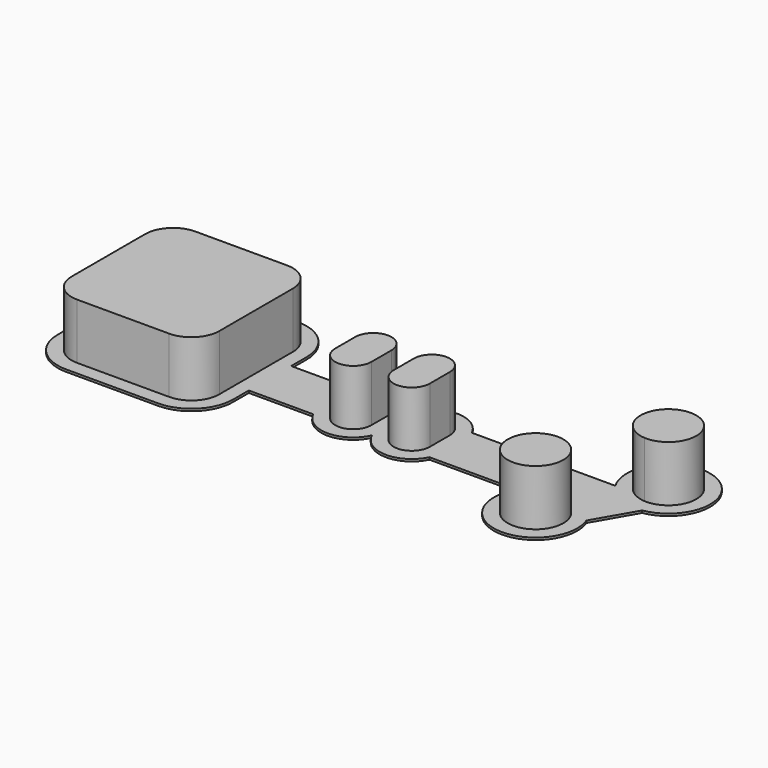
from build123d import *

# Parameters (mm, degrees)
F0_W     = 4
F0_H     = 4.5
F0_W_2   = 16
F0_W_3   = 6.5
F1_DEPTH = 0.4
F2_W     = 6.5
F2_H     = 4.5
F3_DEPTH = 10


with BuildPart() as f1:
    # F0 (on Top) → F1 (new body)
    with BuildSketch(Plane.XY):
        with BuildLine():
            Line((15.75, 4.75), (15.75, 8.25))
            ThreePointArc((15.75, 8.25), (13.5533008589, 13.5533008589), (8.25, 15.75))
            Line((8.25, 15.75), (-8.25, 15.75))
            ThreePointArc((-8.25, 15.75), (-13.5533008589, 13.5533008589), (-15.75, 8.25))
            Line((-15.75, 8.25), (-15.75, -8.25))
            ThreePointArc((-15.75, -8.25), (-13.5533008589, -13.5533008589), (-8.25, -15.75))
            Line((-8.25, -15.75), (8.25, -15.75))
            ThreePointArc((8.25, -15.75), (13.5533008589, -13.5533008589), (15.75, -8.25))
            Line((15.75, -8.25), (15.75, -4.75))
            Line((15.75, -4.75), (27.3219212057, -4.75))
            ThreePointArc((27.3219212057, -4.75), (32.5853423404, -7.9993666334), (37.75, -4.5952078799))
            ThreePointArc((37.75, -4.5952078799), (42.9146576596, -7.9993666334), (48.1780787943, -4.75))
            Line((48.1780787943, -4.75), (63.9480829801, -4.75))
            ThreePointArc((63.9480829801, -4.75), (69.6474451199, -16.1274567319), (77.3637435709, -6.0087617221))
            Line((77.3637435709, -6.0087617221), (81.5596501878, 1.2587617221))
            ThreePointArc((81.5596501878, 1.2587617221), (83.4749132345, 15.4773568118), (73.9480829801, 4.75))
            Line((73.9480829801, 4.75), (48.1780787943, 4.75))
            ThreePointArc((48.1780787943, 4.75), (42.9146576596, 7.9993666334), (37.75, 4.5952078799))
            ThreePointArc((37.75, 4.5952078799), (32.5853423404, 7.9993666334), (27.3219212057, 4.75))
            Line((27.3219212057, 4.75), (15.75, 4.75))
        make_face()
        with BuildLine():
            Line((4.5, 13.25), (8.25, 13.25))
            ThreePointArc((8.25, 13.25), (11.7855339059, 11.7855339059), (13.25, 8.25))
            Line((13.25, 8.25), (13.25, 4.5))
            Line((13.25, 4.5), (13.25, 2.25))
            Line((13.25, 2.25), (29.25, 2.25))
            ThreePointArc((29.25, 2.25), (32.5, 5.5), (35.75, 2.25))
            Line((35.75, 2.25), (39.75, 2.25))
            ThreePointArc((39.75, 2.25), (43, 5.5), (46.25, 2.25))
            Line((46.25, 2.25), (74.0490381057, 2.25))
            Line((74.0490381057, 2.25), (76.1669476654, 5.9183269633))
            ThreePointArc((76.1669476654, 5.9183269633), (82.8480762114, 12.9903810568), (80.0640619824, 3.6683269633))
            Line((80.0640619824, 3.6683269633), (74.5292047573, -5.9183269633))
            ThreePointArc((74.5292047573, -5.9183269633), (67.8480762114, -12.9903810568), (70.6320904403, -3.6683269633))
            Line((70.6320904403, -3.6683269633), (71.4509618943, -2.25))
            Line((71.4509618943, -2.25), (46.25, -2.25))
            ThreePointArc((46.25, -2.25), (43, -5.5), (39.75, -2.25))
            Line((39.75, -2.25), (35.75, -2.25))
            ThreePointArc((35.75, -2.25), (32.5, -5.5), (29.25, -2.25))
            Line((29.25, -2.25), (13.25, -2.25))
            Line((13.25, -2.25), (13.25, -4.5))
            Line((13.25, -4.5), (13.25, -8.25))
            ThreePointArc((13.25, -8.25), (11.7855339059, -11.7855339059), (8.25, -13.25))
            Line((8.25, -13.25), (4.5, -13.25))
            Line((4.5, -13.25), (-4.5, -13.25))
            Line((-4.5, -13.25), (-8.25, -13.25))
            ThreePointArc((-8.25, -13.25), (-11.7855339059, -11.7855339059), (-13.25, -8.25))
            Line((-13.25, -8.25), (-13.25, -4.5))
            Line((-13.25, -4.5), (-13.25, 4.5))
            Line((-13.25, 4.5), (-13.25, 8.25))
            ThreePointArc((-13.25, 8.25), (-11.7855339059, 11.7855339059), (-8.25, 13.25))
            Line((-8.25, 13.25), (-4.5, 13.25))
            Line((-4.5, 13.25), (4.5, 13.25))
        make_face(mode=Mode.SUBTRACT)
        with Locations((37.75, 0)):
            Rectangle(F0_W, F0_H)
        with BuildLine():
            Line((4.5, 0), (4.5, 4.5))
            Line((4.5, 4.5), (0, 4.5))
            ThreePointArc((0, 4.5), (3.1819805153, 3.1819805153), (4.5, 0))
        make_face()
        with Locations((21.25, 0)):
            Rectangle(F0_W_2, F0_H)
        Polygon((74.0490381057, 2.25), (46.25, 2.25), (46.25, -2.25), (71.4509618943, -2.25), align=None)
        with BuildLine():
            ThreePointArc((13.25, 8.25), (11.7855339059, 11.7855339059), (8.25, 13.25))
            Line((8.25, 13.25), (4.5, 13.25))
            Line((4.5, 13.25), (4.5, 4.5))
            Line((4.5, 4.5), (13.25, 4.5))
            Line((13.25, 4.5), (13.25, 8.25))
        make_face()
        Polygon((4.5, 4.5), (4.5, 13.25), (-4.5, 13.25), (-4.5, 4.5), (0, 4.5), align=None)
        with BuildLine():
            Line((0, 4.5), (-4.5, 4.5))
            Line((-4.5, 4.5), (-4.5, 0))
            ThreePointArc((-4.5, 0), (-3.1819805153, 3.1819805153), (0, 4.5))
        make_face()
        with BuildLine():
            Line((-4.5, 4.5), (-4.5, 13.25))
            Line((-4.5, 13.25), (-8.25, 13.25))
            ThreePointArc((-8.25, 13.25), (-11.7855339059, 11.7855339059), (-13.25, 8.25))
            Line((-13.25, 8.25), (-13.25, 4.5))
            Line((-13.25, 4.5), (-4.5, 4.5))
        make_face()
        with BuildLine():
            ThreePointArc((0, -4.5), (-3.1819805153, -3.1819805153), (-4.5, 0))
            Line((-4.5, 0), (-4.5, -4.5))
            Line((-4.5, -4.5), (0, -4.5))
        make_face()
        Polygon((-4.5, 0), (-4.5, 4.5), (-13.25, 4.5), (-13.25, -4.5), (-4.5, -4.5), align=None)
        with BuildLine():
            Line((76.1669476654, 5.9183269633), (74.0490381057, 2.25))
            Line((74.0490381057, 2.25), (71.4509618943, -2.25))
            Line((71.4509618943, -2.25), (70.6320904403, -3.6683269633))
            ThreePointArc((70.6320904403, -3.6683269633), (72.8480762114, -4.3301270189), (74.5292047573, -5.9183269633))
            Line((74.5292047573, -5.9183269633), (80.0640619824, 3.6683269633))
            ThreePointArc((80.0640619824, 3.6683269633), (77.8480762114, 4.3301270189), (76.1669476654, 5.9183269633))
        make_face()
        with BuildLine():
            Line((13.25, -4.5), (4.5, -4.5))
            Line((4.5, -4.5), (4.5, -13.25))
            Line((4.5, -13.25), (8.25, -13.25))
            ThreePointArc((8.25, -13.25), (11.7855339059, -11.7855339059), (13.25, -8.25))
            Line((13.25, -8.25), (13.25, -4.5))
        make_face()
        Polygon((4.5, -4.5), (0, -4.5), (-4.5, -4.5), (-4.5, -13.25), (4.5, -13.25), align=None)
        with BuildLine():
            Line((-4.5, -13.25), (-4.5, -4.5))
            Line((-4.5, -4.5), (-13.25, -4.5))
            Line((-13.25, -4.5), (-13.25, -8.25))
            ThreePointArc((-13.25, -8.25), (-11.7855339059, -11.7855339059), (-8.25, -13.25))
            Line((-8.25, -13.25), (-4.5, -13.25))
        make_face()
        with BuildLine():
            ThreePointArc((0, -4.5), (3.1819805153, -3.1819805153), (4.5, 0))
            ThreePointArc((4.5, 0), (3.1819805153, 3.1819805153), (0, 4.5))
            ThreePointArc((0, 4.5), (-3.1819805153, 3.1819805153), (-4.5, 0))
            ThreePointArc((-4.5, 0), (-3.1819805153, -3.1819805153), (0, -4.5))
        make_face()
        with BuildLine():
            ThreePointArc((35.75, 2.25), (32.5, 5.5), (29.25, 2.25))
            Line((29.25, 2.25), (35.75, 2.25))
        make_face()
        with BuildLine():
            Line((4.5, -4.5), (4.5, 0))
            ThreePointArc((4.5, 0), (3.1819805153, -3.1819805153), (0, -4.5))
            Line((0, -4.5), (4.5, -4.5))
        make_face()
        with BuildLine():
            Line((46.25, -2.25), (39.75, -2.25))
            ThreePointArc((39.75, -2.25), (43, -5.5), (46.25, -2.25))
        make_face()
        with BuildLine():
            ThreePointArc((46.25, 2.25), (43, 5.5), (39.75, 2.25))
            Line((39.75, 2.25), (46.25, 2.25))
        make_face()
        with BuildLine():
            Line((35.75, -2.25), (29.25, -2.25))
            ThreePointArc((29.25, -2.25), (32.5, -5.5), (35.75, -2.25))
        make_face()
        with BuildLine():
            ThreePointArc((74.5292047573, -5.9183269633), (72.8480762114, -4.3301270189), (70.6320904403, -3.6683269633))
            ThreePointArc((70.6320904403, -3.6683269633), (67.8480762114, -12.9903810568), (74.5292047573, -5.9183269633))
        make_face()
        with BuildLine():
            ThreePointArc((80.0640619824, 3.6683269633), (82.8480762114, 12.9903810568), (76.1669476654, 5.9183269633))
            ThreePointArc((76.1669476654, 5.9183269633), (77.8480762114, 4.3301270189), (80.0640619824, 3.6683269633))
        make_face()
        Polygon((13.25, 4.5), (4.5, 4.5), (4.5, 0), (4.5, -4.5), (13.25, -4.5), (13.25, -2.25), (13.25, 2.25), align=None)
        with Locations((32.5, 0)):
            Rectangle(F0_W_3, F0_H)
        with Locations((43, 0)):
            Rectangle(F0_W_3, F0_H)
    extrude(amount=F1_DEPTH)

    # F2 (on face) → F3 (join)
    with BuildSketch(Plane.XY.offset(0.4)):
        with BuildLine():
            Line((4.5, -4.5), (4.5, 0))
            ThreePointArc((4.5, 0), (3.1819805153, -3.1819805153), (0, -4.5))
            Line((0, -4.5), (4.5, -4.5))
        make_face()
        with BuildLine():
            ThreePointArc((0, -4.5), (3.1819805153, -3.1819805153), (4.5, 0))
            ThreePointArc((4.5, 0), (3.1819805153, 3.1819805153), (0, 4.5))
            ThreePointArc((0, 4.5), (-3.1819805153, 3.1819805153), (-4.5, 0))
            ThreePointArc((-4.5, 0), (-3.1819805153, -3.1819805153), (0, -4.5))
        make_face()
        with BuildLine():
            Line((4.5, 0), (4.5, 4.5))
            Line((4.5, 4.5), (0, 4.5))
            ThreePointArc((0, 4.5), (3.1819805153, 3.1819805153), (4.5, 0))
        make_face()
        with BuildLine():
            Line((0, 4.5), (-4.5, 4.5))
            Line((-4.5, 4.5), (-4.5, 0))
            ThreePointArc((-4.5, 0), (-3.1819805153, 3.1819805153), (0, 4.5))
        make_face()
        with BuildLine():
            ThreePointArc((0, -4.5), (-3.1819805153, -3.1819805153), (-4.5, 0))
            Line((-4.5, 0), (-4.5, -4.5))
            Line((-4.5, -4.5), (0, -4.5))
        make_face()
        Polygon((13.25, 4.5), (4.5, 4.5), (4.5, 0), (4.5, -4.5), (13.25, -4.5), (13.25, -2.25), (13.25, 2.25), align=None)
        with BuildLine():
            Line((-4.5, 4.5), (-4.5, 13.25))
            Line((-4.5, 13.25), (-8.25, 13.25))
            ThreePointArc((-8.25, 13.25), (-11.7855339059, 11.7855339059), (-13.25, 8.25))
            Line((-13.25, 8.25), (-13.25, 4.5))
            Line((-13.25, 4.5), (-4.5, 4.5))
        make_face()
        Polygon((-4.5, 0), (-4.5, 4.5), (-13.25, 4.5), (-13.25, -4.5), (-4.5, -4.5), align=None)
        with BuildLine():
            ThreePointArc((13.25, 8.25), (11.7855339059, 11.7855339059), (8.25, 13.25))
            Line((8.25, 13.25), (4.5, 13.25))
            Line((4.5, 13.25), (4.5, 4.5))
            Line((4.5, 4.5), (13.25, 4.5))
            Line((13.25, 4.5), (13.25, 8.25))
        make_face()
        Polygon((4.5, 4.5), (4.5, 13.25), (-4.5, 13.25), (-4.5, 4.5), (0, 4.5), align=None)
        Polygon((4.5, -4.5), (0, -4.5), (-4.5, -4.5), (-4.5, -13.25), (4.5, -13.25), align=None)
        with BuildLine():
            Line((-4.5, -13.25), (-4.5, -4.5))
            Line((-4.5, -4.5), (-13.25, -4.5))
            Line((-13.25, -4.5), (-13.25, -8.25))
            ThreePointArc((-13.25, -8.25), (-11.7855339059, -11.7855339059), (-8.25, -13.25))
            Line((-8.25, -13.25), (-4.5, -13.25))
        make_face()
        with BuildLine():
            Line((13.25, -4.5), (4.5, -4.5))
            Line((4.5, -4.5), (4.5, -13.25))
            Line((4.5, -13.25), (8.25, -13.25))
            ThreePointArc((8.25, -13.25), (11.7855339059, -11.7855339059), (13.25, -8.25))
            Line((13.25, -8.25), (13.25, -4.5))
        make_face()
        with Locations((32.5, 0)):
            Rectangle(F2_W, F2_H)
        with BuildLine():
            ThreePointArc((35.75, 2.25), (32.5, 5.5), (29.25, 2.25))
            Line((29.25, 2.25), (35.75, 2.25))
        make_face()
        with BuildLine():
            Line((35.75, -2.25), (29.25, -2.25))
            ThreePointArc((29.25, -2.25), (32.5, -5.5), (35.75, -2.25))
        make_face()
        with BuildLine():
            Line((46.25, -2.25), (39.75, -2.25))
            ThreePointArc((39.75, -2.25), (43, -5.5), (46.25, -2.25))
        make_face()
        with Locations((43, 0)):
            Rectangle(F2_W, F2_H)
        with BuildLine():
            ThreePointArc((46.25, 2.25), (43, 5.5), (39.75, 2.25))
            Line((39.75, 2.25), (46.25, 2.25))
        make_face()
        with BuildLine():
            ThreePointArc((72.8480762114, -4.3301270189), (71.7788727151, -3.8693437522), (70.6320904403, -3.6683269633))
            ThreePointArc((70.6320904403, -3.6683269633), (67.8480762114, -12.9903810568), (74.5292047573, -5.9183269633))
            ThreePointArc((74.5292047573, -5.9183269633), (73.7817279741, -5.0256927751), (72.8480762114, -4.3301270189))
        make_face()
        with BuildLine():
            ThreePointArc((80.0640619824, 3.6683269633), (82.8480762114, 12.9903810568), (76.1669476654, 5.9183269633))
            ThreePointArc((76.1669476654, 5.9183269633), (76.9144244486, 5.0256927751), (77.8480762114, 4.3301270189))
            ThreePointArc((77.8480762114, 4.3301270189), (78.9172797076, 3.8693437522), (80.0640619824, 3.6683269633))
        make_face()
    extrude(amount=F3_DEPTH)


solid = f1.part
